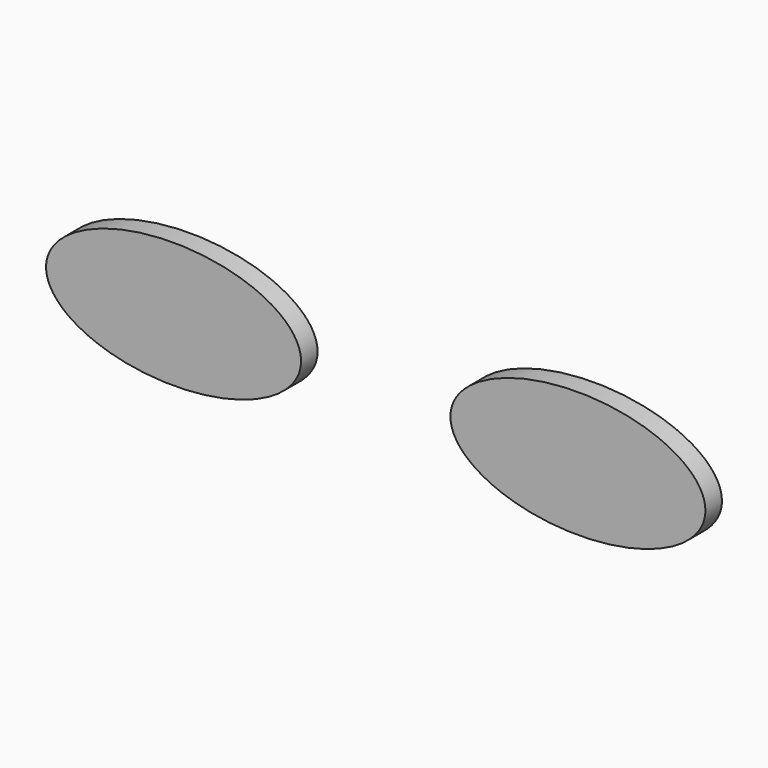
from build123d import *

# Parameters (mm, degrees)
F2_DEPTH = 2.54
F3_DEPTH = 2.54


with BuildPart() as f2:
    # F0 (on Front) → F2 (new body)
    with BuildSketch(Plane.XZ):
        with BuildLine():
            add(Edge.make_bspline(
                [(-9.221848, 0), (-9.221848, 13.411102), (-32.727088, 6.705551), (-56.232328, 0), (-32.727088, -6.705551), (-9.221848, -13.411102), (-9.221848, 0)],
                knots=[0, 0, 0, 2.094395, 2.094395, 4.18879, 4.18879, 6.283185, 6.283185, 6.283185], degree=2, weights=[1, 0.5, 1, 0.5, 1, 0.5, 1]))
        make_face()
    extrude(amount=F2_DEPTH)


with BuildPart() as f3:
    # F1 (on face) → F3 (new body)
    with BuildSketch(Plane.XZ):
        with BuildLine():
            add(Edge.make_bspline(
                [(40.484255, 2e-06), (40.484255, 13.411103), (16.979015, 6.705553), (-6.526224, 2e-06), (16.979015, -6.705549), (40.484255, -13.4111), (40.484255, 2e-06)],
                knots=[0, 0, 0, 2.094395, 2.094395, 4.18879, 4.18879, 6.283185, 6.283185, 6.283185], degree=2, weights=[1, 0.5, 1, 0.5, 1, 0.5, 1]))
        make_face()
    extrude(amount=F3_DEPTH)


solid = Compound([f2.part, f3.part])
